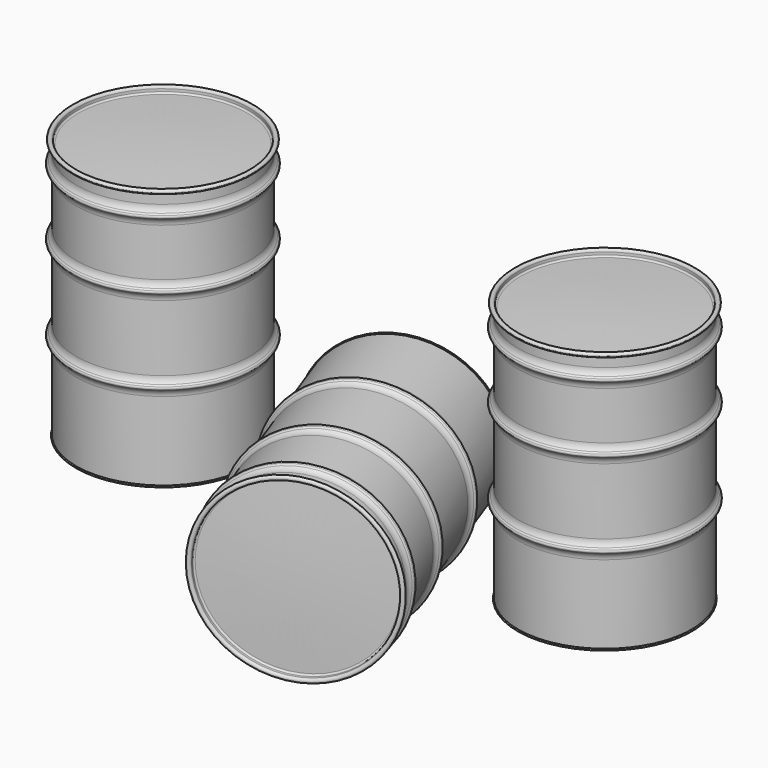
from build123d import *

# Parameters (mm, degrees)
F6_SCALE  = 1.77935943
F9_ANGLE  = -90
F10_ANGLE = 20


with BuildPart() as f1:
    # F0 (on Front) → F1 (revolve)
    with BuildSketch(Plane.XZ):
        with BuildLine():
            ThreePointArc((-286.95, 6.1144940041), (-288.8655672407, 2.5635543618), (-285.75, 0))
            Line((-285.75, 0), (-285.75, 264.7053853094))
            ThreePointArc((-285.75, 264.7053853094), (-288.1517802847, 276.779950186), (-294.9914718626, 287.0162720164))
            Line((-294.9914718626, 287.0162720164), (-299.4815999231, 291.5064000769))
            ThreePointArc((-299.4815999231, 291.5064000769), (-300.99, 295.148), (-299.4815999231, 298.7895999231))
            Line((-299.4815999231, 298.7895999231), (-294.9914718626, 303.2797279836))
            ThreePointArc((-294.9914718626, 303.2797279836), (-288.1517802847, 313.516049814), (-285.75, 325.5906146906))
            Line((-285.75, 325.5906146906), (-285.75, 544.1053853094))
            ThreePointArc((-285.75, 544.1053853094), (-288.1517802847, 556.179950186), (-294.9914718626, 566.4162720164))
            Line((-294.9914718626, 566.4162720164), (-299.4815999231, 570.9064000769))
            ThreePointArc((-299.4815999231, 570.9064000769), (-300.99, 574.548), (-299.4815999231, 578.1895999231))
            Line((-299.4815999231, 578.1895999231), (-294.9914718626, 582.6797279836))
            ThreePointArc((-294.9914718626, 582.6797279836), (-288.1517802847, 592.916049814), (-285.75, 604.9906146906))
            Line((-285.75, 604.9906146906), (-285.75, 763.3073853094))
            ThreePointArc((-285.75, 763.3073853094), (-288.0349165099, 775.4494920595), (-294.8636514881, 785.7460923909))
            Line((-294.8636514881, 785.7460923909), (-299.3537795486, 790.2362204514))
            ThreePointArc((-299.3537795486, 790.2362204514), (-300.8092346928, 793.75), (-299.3537795486, 797.2637795486))
            Line((-299.3537795486, 797.2637795486), (-294.8636514881, 801.7539076092))
            ThreePointArc((-294.8636514881, 801.7539076092), (-288.1153434729, 812.0831739631), (-285.75, 824.1926146906))
            Line((-285.75, 824.1926146906), (-285.75, 863.6))
            ThreePointArc((-285.75, 863.6), (-297.7905093966, 866.4179075228), (-288.2509772621, 858.5495026024))
            Line((-288.2509772621, 858.5495026024), (-288.9783516377, 859.5039273075))
            ThreePointArc((-288.9783516377, 859.5039273075), (-296.7151375421, 865.8853895657), (-286.95, 863.6))
            Line((-286.95, 863.6), (-286.95, 824.1926146906))
            ThreePointArc((-286.95, 824.1926146906), (-289.2604357237, 812.5772699328), (-295.84, 802.7302561211))
            Line((-295.84, 802.7302561211), (-300.3301280605, 798.2401280605))
            ThreePointArc((-300.3301280605, 798.2401280605), (-302.19, 793.75), (-300.3301280605, 789.2598719395))
            Line((-300.3301280605, 789.2598719395), (-295.84, 784.7697438789))
            ThreePointArc((-295.84, 784.7697438789), (-289.2604357237, 774.9227300672), (-286.95, 763.3073853094))
            Line((-286.95, 763.3073853094), (-286.95, 604.9906146906))
            ThreePointArc((-286.95, 604.9906146906), (-289.2604357237, 593.3752699328), (-295.84, 583.5282561211))
            Line((-295.84, 583.5282561211), (-300.3301280605, 579.0381280605))
            ThreePointArc((-300.3301280605, 579.0381280605), (-302.19, 574.548), (-300.3301280605, 570.0578719395))
            Line((-300.3301280605, 570.0578719395), (-295.84, 565.5677438789))
            ThreePointArc((-295.84, 565.5677438789), (-289.2604357237, 555.7207300672), (-286.95, 544.1053853094))
            Line((-286.95, 544.1053853094), (-286.95, 325.5906146906))
            ThreePointArc((-286.95, 325.5906146906), (-289.2604357237, 313.9752699328), (-295.84, 304.1282561211))
            Line((-295.84, 304.1282561211), (-300.3301280605, 299.6381280605))
            ThreePointArc((-300.3301280605, 299.6381280605), (-302.19, 295.148), (-300.3301280605, 290.6578719395))
            Line((-300.3301280605, 290.6578719395), (-295.84, 286.1677438789))
            ThreePointArc((-295.84, 286.1677438789), (-289.2604357237, 276.3207300672), (-286.95, 264.7053853094))
            Line((-286.95, 264.7053853094), (-286.95, 6.1144940041))
        make_face()
    revolve(axis=Axis((0, 0, 88.6719599366), (0, 0, 1)))

    # F2 (on Front) → F3 (revolve)
    with BuildSketch(Plane.XZ):
        with BuildLine():
            ThreePointArc((-282.3056437117, 22.340553728), (-284.7227219076, 21.5153574593), (-285.75, 19.177))
            Line((-285.75, 19.177), (-285.75, 0))
            Line((-285.75, 0), (-284.55, 0))
            Line((-284.55, 0), (-284.55, 19.177))
            ThreePointArc((-284.55, 19.177), (-283.9109844937, 20.6315688133), (-282.4074476632, 21.144879878))
            ThreePointArc((-282.4074476632, 21.144879878), (-141.3311604119, 12.1455732105), (0, 9.144))
            Line((0, 9.144), (0, 10.344))
            ThreePointArc((0, 10.344), (-141.280212497, 13.3444911851), (-282.3056437117, 22.340553728))
        make_face()
    revolve(axis=Axis((0, 0, 97.150310874), (0, 0, -1)))


with BuildPart() as f5:
    # F4 (on Front) → F5 (revolve)
    with BuildSketch(Plane.XZ):
        with BuildLine():
            Line((-299.65, 863.6), (-298.45, 863.6))
            ThreePointArc((-298.45, 863.6), (-292.1, 869.95), (-285.75, 863.6))
            Line((-285.75, 863.6), (-285.75, 855.148))
            ThreePointArc((-285.75, 855.148), (-283.7523083437, 850.5241582984), (-279.0161694233, 848.809611081))
            ThreePointArc((-279.0161694233, 848.8096110811), (-139.5719016894, 855.1394202562), (0, 857.25))
            Line((0, 857.25), (0, 858.45))
            ThreePointArc((0, 858.45), (-139.6081857357, 856.3388715758), (-279.0887043354, 850.0074168611))
            ThreePointArc((-279.0887043354, 850.007416861), (-282.9298248772, 851.3979551554), (-284.55, 855.148))
            Line((-284.55, 855.148), (-284.55, 863.6))
            ThreePointArc((-284.55, 863.6), (-292.1, 871.15), (-299.65, 863.6))
        make_face()
    revolve(axis=Axis((0, 0, 399.7365534306), (0, 0, -1)))


with BuildPart() as f5_1:
    # F6: moved
    add(f5.part.scale(F6_SCALE))


with BuildPart() as f1_1:
    # F6: moved
    add(f1.part.scale(F6_SCALE))


with BuildPart() as f7_1:
    # F7: copy of F1
    add(f1_1.part.moved(Location((2600, 0, 0))))


with BuildPart() as f7_2:
    # F7: copy of F5
    add(f5_1.part.moved(Location((2600, 0, 0))))


with BuildPart() as f8_1:
    # F8: copy of F7_2
    add(f7_2.part.moved(Location((-1000, -500, 0))))


with BuildPart() as f8_2:
    # F8: copy of F7_1
    add(f7_1.part.moved(Location((-1000, -500, 0))))


with BuildPart() as f8_1_1:
    # F9: moved
    add(f8_1.part.rotate(Axis((-245.7424104214, 0, 0), (-1, 0, 0)), F9_ANGLE))


with BuildPart() as f8_2_1:
    # F9: moved
    add(f8_2.part.rotate(Axis((-245.7424104214, 0, 0), (-1, 0, 0)), F9_ANGLE))


with BuildPart() as f8_2_2:
    # F10: moved
    add(f8_2_1.part.rotate(Axis((-285.75, 0, 434.848), (0, 0, 1)), F10_ANGLE))


with BuildPart() as f8_1_2:
    # F10: moved
    add(f8_1_1.part.rotate(Axis((-285.75, 0, 434.848), (0, 0, 1)), F10_ANGLE))


with BuildPart() as f8_1_3:
    # F11: moved
    add(f8_1_2.part.moved(Location((0, -738, 1040))))


with BuildPart() as f8_2_3:
    # F11: moved
    add(f8_2_2.part.moved(Location((0, -738, 1040))))


solid = Compound([f5_1.part, f1_1.part, f7_1.part, f7_2.part, f8_1_3.part, f8_2_3.part])
